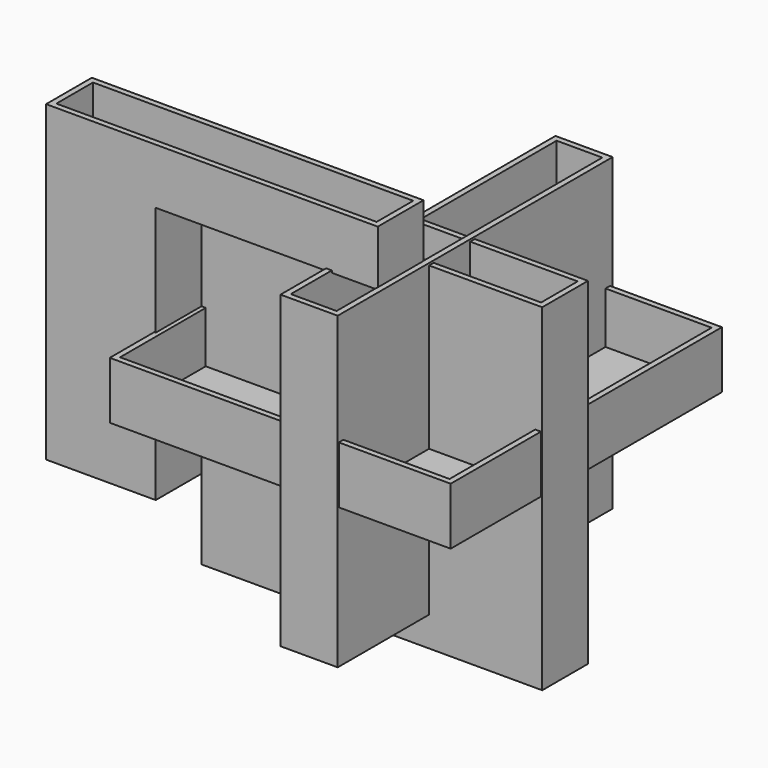
from build123d import *

# Parameters (mm, degrees)
F0_W     = 151.3367220759
F0_H     = 149.7606560588
F1_DEPTH = 25.4
F3_DEPTH = 25.4
F4_W     = 151.4038592577
F4_H     = 150.585450232
F5_DEPTH = 25.4
F6_W     = 152.6314616203
F6_H     = 137.4863237143
F7_DEPTH = 25.4
F8_T     = -2.54
F9_T     = -2.54
F10_T    = -2.54
F11_T    = -2.54


with BuildPart() as f1:
    # F0 (on Front) → F1 (new body)
    with BuildSketch(Plane.XZ):
        with Locations((3.7253e-06, -0.6579868495)):
            Rectangle(F0_W, F0_H)
    extrude(amount=F1_DEPTH)

    # F10
    f10_openings = [f1.faces().sort_by_distance(p)[0] for p in [
        (4e-06, -12.7, 74.222341),
    ]]
    offset(amount=F10_T, openings=f10_openings)


with BuildPart() as f3:
    # F2 (on face) → F3 (new body)
    with BuildSketch(Plane.XZ.offset(25.4)):
        Polygon((-124.3670582771, 98.9207774401), (-124.3670582771, -40.0690212846), (-75.6683573127, -40.0690212846), (-75.6683573127, 74.2223411798), (22.944804281, 74.2223411798), (22.944804281, 98.9207774401), align=None)
    extrude(amount=F3_DEPTH)

    # F8
    f8_openings = [f3.faces().sort_by_distance(p)[0] for p in [
        (-50.711127, -38.1, 98.920777),
    ]]
    offset(amount=F8_T, openings=f8_openings, kind=Kind.INTERSECTION)


with BuildPart() as f5:
    # F4 (on Top) → F5 (new body)
    with BuildSketch(Plane.XY):
        with Locations((-0.6138011813, -0.2045966685)):
            Rectangle(F4_W, F4_H)
    extrude(amount=F5_DEPTH)

    # F11
    f11_openings = [f5.faces().sort_by_distance(p)[0] for p in [
        (-0.613801, -0.204597, 25.4),
    ]]
    offset(amount=F11_T, openings=f11_openings)


with BuildPart() as f7:
    # F6 (on Right) → F7 (new body)
    with BuildSketch(Plane.YZ):
        with Locations((0.2046003938, 6.4316242933)):
            Rectangle(F6_W, F6_H)
    extrude(amount=F7_DEPTH)

    # F9
    f9_openings = [f7.faces().sort_by_distance(p)[0] for p in [
        (12.7, 0.2046, 75.174786),
    ]]
    offset(amount=F9_T, openings=f9_openings)


solid = Compound([f1.part, f3.part, f5.part, f7.part])
